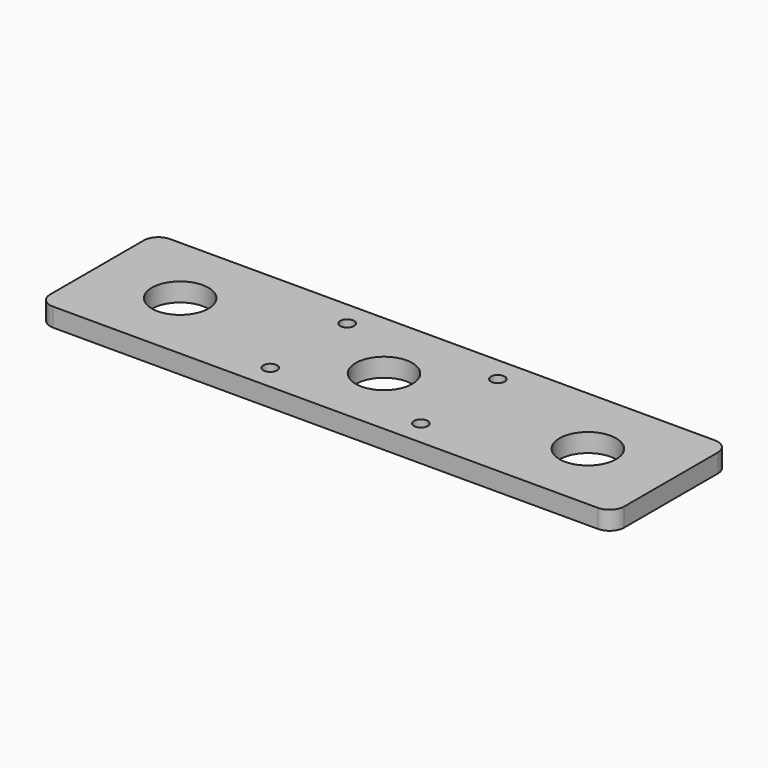
from build123d import *

# Parameters (mm, degrees)
F0_R     = 1.9
F0_R_2   = 7.75
F1_DEPTH = 5.08


with BuildPart() as f1:
    # F0 (on Top) → F1 (new body)
    with BuildSketch(Plane.XY):
        with BuildLine():
            ThreePointArc((0, 4), (1.171573, 1.171573), (4, 0))
            Line((4, 0), (153, 0))
            ThreePointArc((153, 0), (155.828427, 1.171573), (157, 4))
            Line((157, 4), (157, 36))
            ThreePointArc((157, 36), (155.828427, 38.828427), (153, 40))
            Line((153, 40), (4, 40))
            ThreePointArc((4, 40), (1.171573, 38.828427), (0, 36))
            Line((0, 36), (0, 4))
        make_face()
        with Locations((57.9, 6.85)):
            Circle(F0_R, mode=Mode.SUBTRACT)
        with Locations((99.1, 6.85)):
            Circle(F0_R, mode=Mode.SUBTRACT)
        with Locations((22.75, 20)):
            Circle(F0_R_2, mode=Mode.SUBTRACT)
        with Locations((57.9, 33.15)):
            Circle(F0_R, mode=Mode.SUBTRACT)
        with Locations((78.5, 20)):
            Circle(F0_R_2, mode=Mode.SUBTRACT)
        with Locations((134.25, 20)):
            Circle(F0_R_2, mode=Mode.SUBTRACT)
        with Locations((99.1, 33.15)):
            Circle(F0_R, mode=Mode.SUBTRACT)
    extrude(amount=F1_DEPTH)


solid = f1.part
